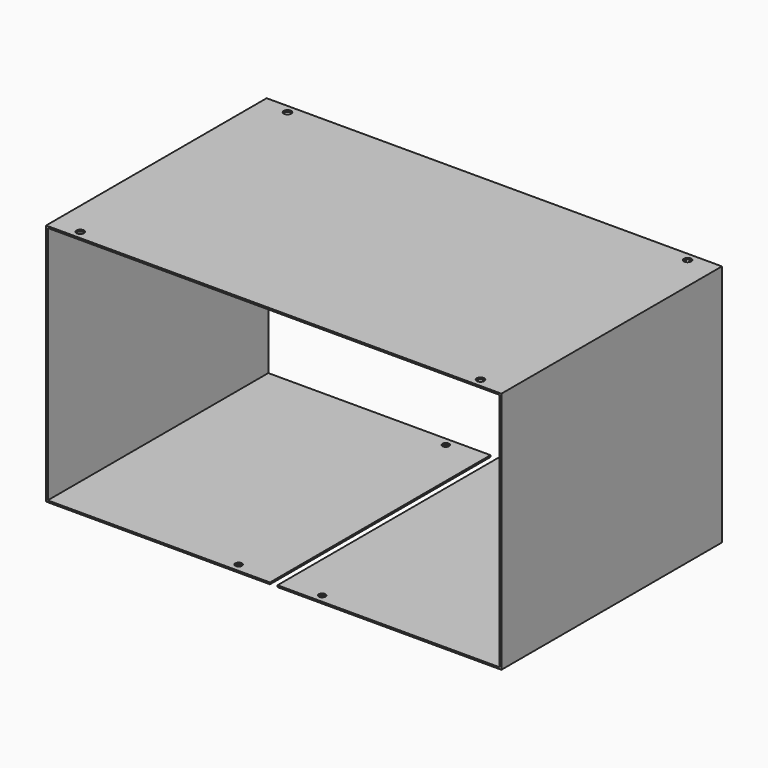
from build123d import *

# Parameters (mm, degrees)
F1_DEPTH = 165
F2_R     = 2
F3_DEPTH = 1
F4_R     = 2.25
F5_DEPTH = 1


with BuildPart() as f1:
    # F0 (on Front) → F1 (new body)
    with BuildSketch(Plane.XZ):
        Polygon((136.25, 72.75), (-136.25, 72.75), (-136.25, -72.75), (-2.25, -72.75), (-2.25, -71.75), (-135.25, -71.75), (-135.25, 71.75), (135.25, 71.75), (135.25, -71.75), (2.25, -71.75), (2.25, -72.75), (136.25, -72.75), align=None)
    extrude(amount=F1_DEPTH)

    # F2 (on face) → F3 (cut, through all)
    with BuildSketch(Plane(origin=(0, 0, -72.75), x_dir=(1, 0, 0), z_dir=(0, 0, -1))):
        with Locations((25, 160)):
            Circle(F2_R)
        with Locations((-25, 160)):
            Circle(F2_R)
        with Locations((25, 5)):
            Circle(F2_R)
        with Locations((-25, 5)):
            Circle(F2_R)
    extrude(amount=-F3_DEPTH, mode=Mode.SUBTRACT)

    # F4 (on face) → F5 (cut, through all)
    with BuildSketch(Plane.XY.offset(72.75)):
        with Locations((-119.75, -5)):
            Circle(F4_R)
        with Locations((119.75, -5)):
            Circle(F4_R)
        with Locations((-119.75, -160)):
            Circle(F4_R)
        with Locations((119.75, -160)):
            Circle(F4_R)
    extrude(amount=-F5_DEPTH, mode=Mode.SUBTRACT)


solid = f1.part
